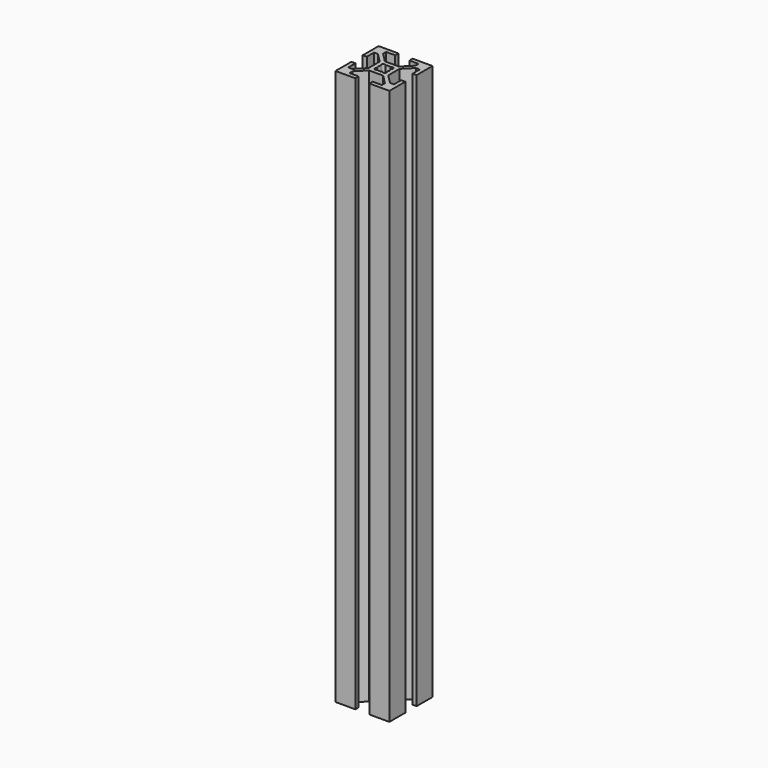
from build123d import *

# Parameters (mm, degrees)
F1_DEPTH = 206.2734


with BuildPart() as f1:
    # F0 (on Top) → F1 (new body)
    with BuildSketch(Plane.XY):
        Polygon((10, 2.63), (10, 10), (2.63, 10), (2.63, 8.5), (5.995, 8.5), (5.995, 7.05566), (2.59934, 3.66), (-2.59934, 3.66), (-5.995, 7.05566), (-5.995, 8.5), (-2.63, 8.5), (-2.63, 10), (-10, 10), (-10, 2.63), (-8.5, 2.63), (-8.5, 5.995), (-7.05566, 5.995), (-3.66, 2.59934), (-3.66, -2.59934), (-7.05566, -5.995), (-8.5, -5.995), (-8.5, -2.63), (-10, -2.63), (-10, -10), (-2.63, -10), (-2.63, -8.5), (-5.995, -8.5), (-5.995, -7.05566), (-2.59934, -3.66), (2.59934, -3.66), (5.995, -7.05566), (5.995, -8.5), (2.63, -8.5), (2.63, -10), (10, -10), (10, -2.63), (8.5, -2.63), (8.5, -5.995), (7.05566, -5.995), (3.66, -2.59934), (3.66, 2.59934), (7.05566, 5.995), (8.5, 5.995), (8.5, 2.63), align=None)
        with BuildLine():
            ThreePointArc((1.886053, 0.912048), (2.042095, 0.467838), (2.095, 0))
            ThreePointArc((2.095, 0), (2.042095, -0.467838), (1.886053, -0.912048))
            ThreePointArc((1.886053, -0.912048), (2.102098, -1.161042), (2.179889, -1.481389))
            ThreePointArc((2.179889, -1.481389), (1.693777, -2.146816), (0.912048, -1.886053))
            ThreePointArc((0.912048, -1.886053), (0, -2.095), (-0.912048, -1.886053))
            ThreePointArc((-0.912048, -1.886053), (-1.975303, -1.975303), (-1.886053, -0.912048))
            ThreePointArc((-1.886053, -0.912048), (-2.095, 0), (-1.886053, 0.912048))
            ThreePointArc((-1.886053, 0.912048), (-1.975303, 1.975303), (-0.912048, 1.886053))
            ThreePointArc((-0.912048, 1.886053), (0, 2.095), (0.912048, 1.886053))
            ThreePointArc((0.912048, 1.886053), (1.693777, 2.146816), (2.179889, 1.481389))
            ThreePointArc((2.179889, 1.481389), (2.102098, 1.161042), (1.886053, 0.912048))
        make_face(mode=Mode.SUBTRACT)
    extrude(amount=F1_DEPTH)


solid = f1.part
